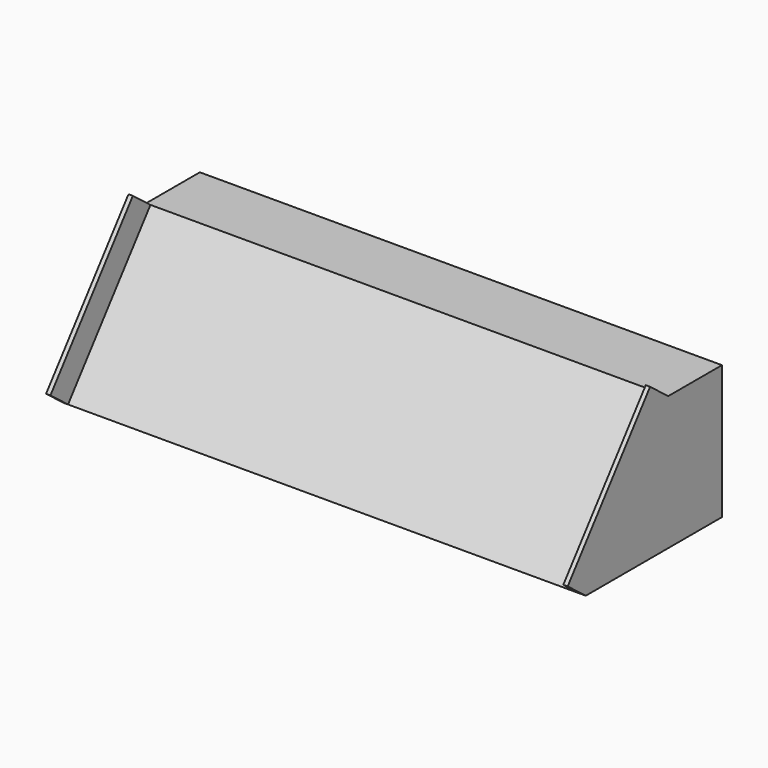
from build123d import *

# Parameters (mm, degrees)
F1_DEPTH = 76.2
F3_DEPTH = 1.27
F5_DEPTH = 1.27


with BuildPart() as f1:
    # F0 (on Right) → F1 (new body, symmetric)
    with BuildSketch(Plane.YZ):
        Polygon((26.177771, 39.065287), (-3.893106, 0), (26.177771, 0), (45.777533, 0), (45.777533, 39.065287), align=None)
    extrude(amount=F1_DEPTH, both=True)

    # F2 (on face) → F3 (join)
    with BuildSketch(Plane.YZ.offset(76.2)):
        Polygon((-10.503355, 5.088302), (-3.893106, 0), (26.177771, 39.065287), (19.567522, 44.153589), align=None)
    extrude(amount=-F3_DEPTH)

    # F4 (on face) → F5 (join)
    with BuildSketch(Plane(origin=(-76.2, 0, 0), x_dir=(0, -1, 0), z_dir=(-1, 0, 0))):
        Polygon((-19.752756, 44.011004), (-26.177771, 39.065287), (3.893106, 0), (10.318121, 4.945717), align=None)
    extrude(amount=-F5_DEPTH)


solid = f1.part
